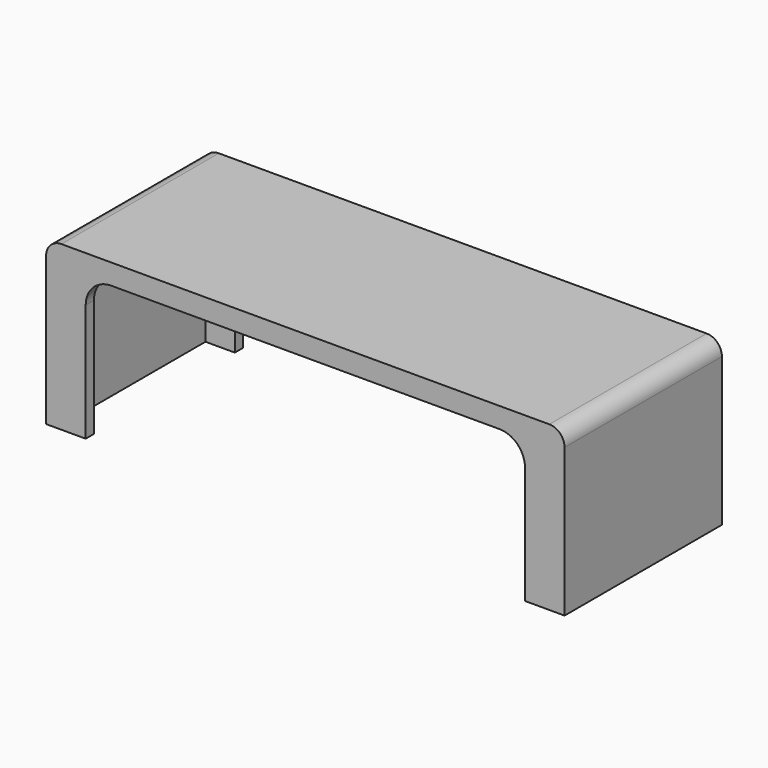
from build123d import *

# Parameters (mm, degrees)
F0_W     = 101.5
F0_H     = 38.5
F1_DEPTH = 32
F2_W     = 97.5
F2_H     = 34.5
F3_DEPTH = 29
F5_DEPTH = 38.501
F6_R     = 5
F7_R     = 5
F8_R     = 3


with BuildPart() as f1:
    # F0 (on Top) → F1 (new body)
    with BuildSketch(Plane.XY):
        Rectangle(F0_W, F0_H)
    extrude(amount=F1_DEPTH)

    # F2 (on face) → F3 (cut)
    with BuildSketch(Plane(origin=(0, 0, 0), x_dir=(1, 0, 0), z_dir=(0, 0, -1))):
        Rectangle(F2_W, F2_H)
    extrude(amount=-F3_DEPTH, mode=Mode.SUBTRACT)

    # F4 (on face) → F5 (cut, through all)
    with BuildSketch(Plane.XZ.offset(19.25)):
        with BuildLine():
            Line((-43, 23), (-43, 0))
            Line((-43, 0), (43, 0))
            Line((43, 0), (43, 23))
            ThreePointArc((43, 23), (41.535534, 26.535534), (38, 28))
            Line((38, 28), (-38, 28))
            ThreePointArc((-38, 28), (-41.535534, 26.535534), (-43, 23))
        make_face()
    extrude(amount=-F5_DEPTH, mode=Mode.SUBTRACT)

    # F6
    f6_edges = [f1.edges().sort_by_distance(p)[0] for p in [
        (48.75, 0, 29),
    ]]
    fillet(f6_edges, radius=F6_R)

    # F7
    f7_edges = [f1.edges().sort_by_distance(p)[0] for p in [
        (-48.75, 0, 29),
    ]]
    fillet(f7_edges, radius=F7_R)

    # F8
    f8_edges = [f1.edges().sort_by_distance(p)[0] for p in [
        (50.75, 0, 32),
        (-50.75, 0, 32),
    ]]
    fillet(f8_edges, radius=F8_R)


solid = f1.part
